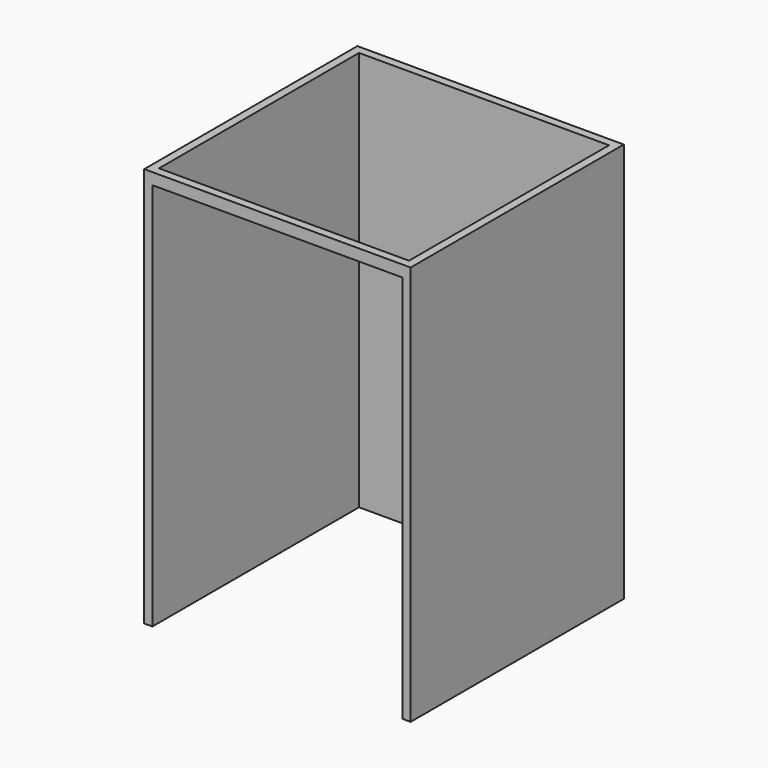
from build123d import *

# Parameters (mm, degrees)
F0_W     = 1625
F0_H     = 1625
F0_W_2   = 1525
F0_H_2   = 1525
F1_DEPTH = 2440
F2_W     = 1525
F2_H     = 2370
F3_DEPTH = 164


with BuildPart() as f1:
    # F0 (on Top) → F1 (new body)
    with BuildSketch(Plane.XY):
        Rectangle(F0_W, F0_H)
        Rectangle(F0_W_2, F0_H_2, mode=Mode.SUBTRACT)
    extrude(amount=F1_DEPTH)

    # F2 (on face) → F3 (cut)
    with BuildSketch(Plane.XZ.offset(812.5)):
        with Locations((0, 1185)):
            Rectangle(F2_W, F2_H)
    extrude(amount=-F3_DEPTH, mode=Mode.SUBTRACT)


solid = f1.part
